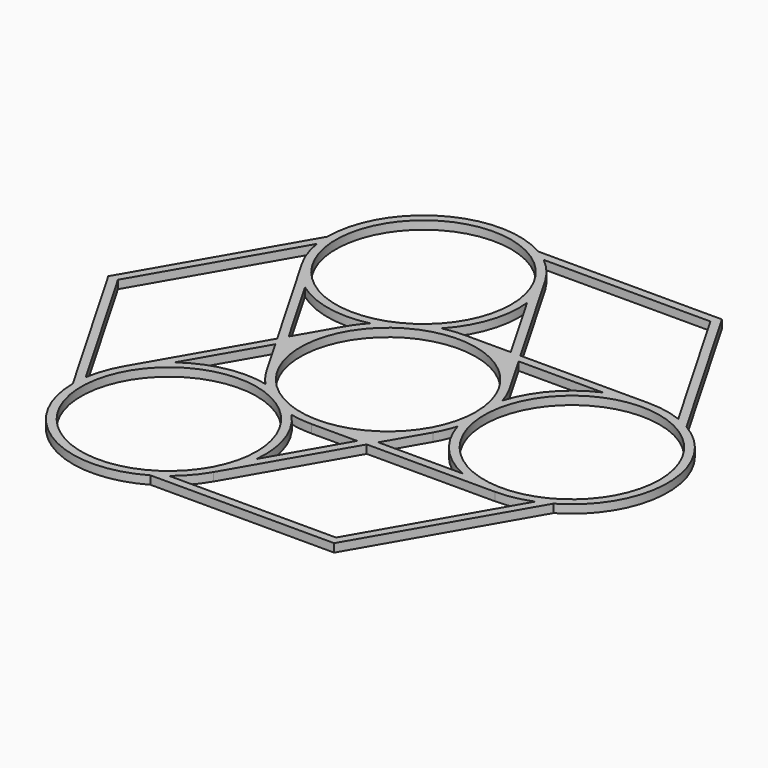
from build123d import *

# Parameters (mm, degrees)
F0_R     = 21
F1_DEPTH = 2


with BuildPart() as f1:
    # F0 (on Top) → F1 (new body)
    with BuildSketch(Plane.XY):
        with BuildLine():
            Line((-10.5, -58.023702), (33.5, -58.023702))
            Line((33.5, -58.023702), (55.5, -19.918584))
            ThreePointArc((55.5, -19.918584), (67, 0), (55.5, 19.918584))
            Line((55.5, 19.918584), (33.5, 58.023702))
            Line((33.5, 58.023702), (-10.5, 58.023702))
            ThreePointArc((-10.5, 58.023702), (-33.5, 58.023702), (-45, 38.105118))
            Line((-45, 38.105118), (-67, 0))
            Line((-67, 0), (-45, -38.105118))
            ThreePointArc((-45, -38.105118), (-33.5, -58.023702), (-10.5, -58.023702))
        make_face()
        with Locations((-22, -38.105118)):
            Circle(F0_R, mode=Mode.SUBTRACT)
        with BuildLine():
            Line((-26.558112, 0), (-41.918584, -26.605118))
            ThreePointArc((-41.918584, -26.605118), (-43.692481, -30.460755), (-44.72774, -34.576686))
            Line((-44.72774, -34.576686), (-64.690599, 0))
            Line((-64.690599, 0), (-44.72774, 34.576686))
            ThreePointArc((-44.72774, 34.576686), (-43.692481, 30.460755), (-41.918584, 26.605118))
            Line((-41.918584, 26.605118), (-26.558112, 0))
        make_face(mode=Mode.SUBTRACT)
        with BuildLine():
            Line((-25.403412, -2), (-19.918584, -11.5))
            ThreePointArc((-19.918584, -11.5), (-18.483624, -13.687792), (-16.809475, -15.698457))
            ThreePointArc((-16.809475, -15.698457), (-26.563198, -15.562331), (-35.496118, -19.481079))
            Line((-35.496118, -19.481079), (-25.403412, -2))
        make_face(mode=Mode.SUBTRACT)
        with BuildLine():
            ThreePointArc((-22.876949, 2.375962), (-23, 0), (-22.876949, -2.375962))
            Line((-22.876949, -2.375962), (-24.248711, 0))
            Line((-24.248711, 0), (-22.876949, 2.375962))
        make_face(mode=Mode.SUBTRACT)
        with BuildLine():
            ThreePointArc((-5.190525, -22.406661), (-2.612164, -22.851184), (0, -23))
            Line((0, -23), (10.969655, -23))
            Line((10.969655, -23), (0.876949, -40.481079))
            ThreePointArc((0.876949, -40.481079), (-0.195775, -30.78557), (-5.190525, -22.406661))
        make_face(mode=Mode.SUBTRACT)
        with BuildLine():
            Line((13.279056, -23), (44, -23))
            ThreePointArc((44, -23), (48.226028, -22.608421), (52.308158, -21.447016))
            Line((52.308158, -21.447016), (32.345299, -56.023702))
            Line((32.345299, -56.023702), (-7.580418, -56.023702))
            ThreePointArc((-7.580418, -56.023702), (-4.533547, -53.069176), (-2.081416, -49.605118))
            Line((-2.081416, -49.605118), (13.279056, -23))
        make_face(mode=Mode.SUBTRACT)
        with BuildLine():
            Line((12.124356, -21), (9.380832, -21))
            ThreePointArc((9.380832, -21), (11.5, -19.918584), (13.496118, -18.624038))
            Line((13.496118, -18.624038), (12.124356, -21))
        make_face(mode=Mode.SUBTRACT)
        Circle(F0_R, mode=Mode.SUBTRACT)
        with BuildLine():
            Line((14.433757, -21), (19.918584, -11.5))
            ThreePointArc((19.918584, -11.5), (21.095788, -9.163392), (22, -6.708204))
            ThreePointArc((22, -6.708204), (26.758973, -15.223239), (34.619168, -21))
            Line((34.619168, -21), (14.433757, -21))
        make_face(mode=Mode.SUBTRACT)
        with Locations((44, 0)):
            Circle(F0_R, mode=Mode.SUBTRACT)
        with BuildLine():
            Line((-25.403412, 2), (-35.496118, 19.481079))
            ThreePointArc((-35.496118, 19.481079), (-26.563198, 15.562331), (-16.809475, 15.698457))
            ThreePointArc((-16.809475, 15.698457), (-18.483624, 13.687792), (-19.918584, 11.5))
            Line((-19.918584, 11.5), (-25.403412, 2))
        make_face(mode=Mode.SUBTRACT)
        with Locations((-22, 38.105118)):
            Circle(F0_R, mode=Mode.SUBTRACT)
        with BuildLine():
            Line((14.433757, 21), (34.619168, 21))
            ThreePointArc((34.619168, 21), (26.758973, 15.223239), (22, 6.708204))
            ThreePointArc((22, 6.708204), (21.095788, 9.163392), (19.918584, 11.5))
            Line((19.918584, 11.5), (14.433757, 21))
        make_face(mode=Mode.SUBTRACT)
        with BuildLine():
            ThreePointArc((13.496118, 18.624038), (11.5, 19.918584), (9.380832, 21))
            Line((9.380832, 21), (12.124356, 21))
            Line((12.124356, 21), (13.496118, 18.624038))
        make_face(mode=Mode.SUBTRACT)
        with BuildLine():
            Line((10.969655, 23), (0, 23))
            ThreePointArc((0, 23), (-2.612164, 22.851184), (-5.190525, 22.406661))
            ThreePointArc((-5.190525, 22.406661), (-0.195775, 30.78557), (0.876949, 40.481079))
            Line((0.876949, 40.481079), (10.969655, 23))
        make_face(mode=Mode.SUBTRACT)
        with BuildLine():
            Line((13.279056, 23), (-2.081416, 49.605118))
            ThreePointArc((-2.081416, 49.605118), (-4.533547, 53.069176), (-7.580418, 56.023702))
            Line((-7.580418, 56.023702), (32.345299, 56.023702))
            Line((32.345299, 56.023702), (52.308158, 21.447016))
            ThreePointArc((52.308158, 21.447016), (48.226028, 22.608421), (44, 23))
            Line((44, 23), (13.279056, 23))
        make_face(mode=Mode.SUBTRACT)
        with BuildLine():
            ThreePointArc((13.496118, -18.624038), (11.5, -19.918584), (9.380832, -21))
            Line((9.380832, -21), (12.124356, -21))
            Line((12.124356, -21), (13.496118, -18.624038))
        make_face()
        with BuildLine():
            Line((12.124356, 21), (9.380832, 21))
            ThreePointArc((9.380832, 21), (11.5, 19.918584), (13.496118, 18.624038))
            Line((13.496118, 18.624038), (12.124356, 21))
        make_face()
        with BuildLine():
            Line((-24.248711, 0), (-22.876949, -2.375962))
            ThreePointArc((-22.876949, -2.375962), (-23, 0), (-22.876949, 2.375962))
            Line((-22.876949, 2.375962), (-24.248711, 0))
        make_face()
    extrude(amount=F1_DEPTH)


solid = f1.part
